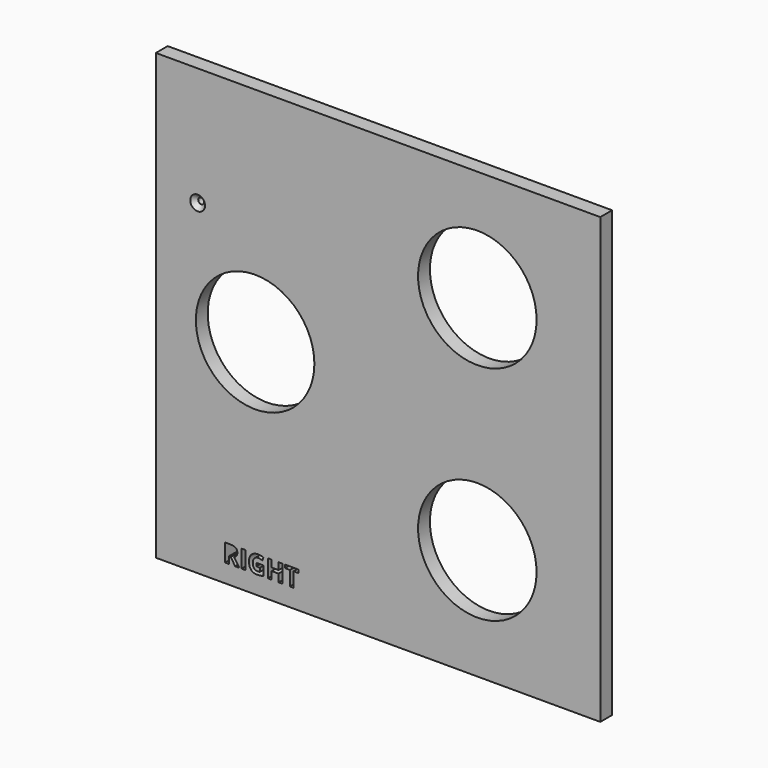
from build123d import *

# Parameters (mm, degrees)
F0_W     = 300
F0_H     = 300
F0_W_2   = 2.5421465495
F0_H_2   = 11.9866538541
F0_R     = 40
F0_R_2   = 2
F1_DEPTH = 10
F2_SIZE  = 3


with BuildPart() as f1:
    # F0 (on Front) → F1 (new body)
    with BuildSketch(Plane.XZ):
        with Locations((-11.0126920044, -10.4479454458)):
            Rectangle(F0_W, F0_H)
        with BuildLine():
            Line((-110.3819430217, -143.5288141009), (-111.7330322611, -143.5288141009))
            Line((-111.7330322611, -143.5288141009), (-111.7330322611, -148.1277644634))
            Line((-111.7330322611, -148.1277644634), (-114.2751788106, -148.1277644634))
            Line((-114.2751788106, -148.1277644634), (-114.2751788106, -136.1411106094))
            Line((-114.2751788106, -136.1411106094), (-110.7833345822, -136.1411106094))
            add(Edge.make_bspline(
                [(-110.7833345822, -136.1411106094), (-108.33825658, -136.1411106094), (-107.1668753268, -137.0304683805)],
                knots=[0, 0, 0, 1, 1, 1], degree=2))
            add(Edge.make_bspline(
                [(-107.1668753268, -137.0304683805), (-105.9954940736, -137.9198261517), (-105.9954940736, -139.7326468594)],
                knots=[0, 0, 0, 1, 1, 1], degree=2))
            add(Edge.make_bspline(
                [(-105.9954940736, -139.7326468594), (-105.9954940736, -140.7899069826), (-106.5765936202, -141.6136778975)],
                knots=[0, 0, 0, 1, 1, 1], degree=2))
            add(Edge.make_bspline(
                [(-106.5765936202, -141.6136778975), (-107.1576931669, -142.4374488124), (-108.2254471872, -142.9044272291)],
                knots=[0, 0, 0, 1, 1, 1], degree=2))
            add(Edge.make_bspline(
                [(-108.2254471872, -142.9044272291), (-105.5180217599, -146.9472010504), (-104.6994977935, -148.1277644634)],
                knots=[0, 0, 0, 1, 1, 1], degree=2))
            Line((-104.6994977935, -148.1277644634), (-107.5197326136, -148.1277644634))
            Line((-107.5197326136, -148.1277644634), (-110.3819430217, -143.5288141009))
        make_face(mode=Mode.SUBTRACT)
        with Locations((-101.9199268242, -142.1344375364)):
            Rectangle(F0_W_2, F0_H_2, mode=Mode.SUBTRACT)
        with BuildLine():
            Line((-93.0827538088, -143.5130732554), (-93.0827538088, -141.3959295347))
            Line((-93.0827538088, -141.3959295347), (-88.3263949913, -141.3959295347))
            Line((-88.3263949913, -141.3959295347), (-88.3263949913, -147.6109400359))
            add(Edge.make_bspline(
                [(-88.3263949913, -147.6109400359), (-89.4833471361, -147.9887203281), (-90.5038786198, -148.1408818347)],
                knots=[0, 0, 0, 1, 1, 1], degree=2))
            add(Edge.make_bspline(
                [(-90.5038786198, -148.1408818347), (-91.5244101036, -148.2930433413), (-92.5895406496, -148.2930433413)],
                knots=[0, 0, 0, 1, 1, 1], degree=2))
            add(Edge.make_bspline(
                [(-92.5895406496, -148.2930433413), (-95.3022130254, -148.2930433413), (-96.7333182295, -146.6979709965)],
                knots=[0, 0, 0, 1, 1, 1], degree=2))
            add(Edge.make_bspline(
                [(-96.7333182295, -146.6979709965), (-98.1644234335, -145.1028986517), (-98.1644234335, -142.1173849538)],
                knots=[0, 0, 0, 1, 1, 1], degree=2))
            add(Edge.make_bspline(
                [(-98.1644234335, -142.1173849538), (-98.1644234335, -139.2158224319), (-96.5037642325, -137.5932036074)],
                knots=[0, 0, 0, 1, 1, 1], degree=2))
            add(Edge.make_bspline(
                [(-96.5037642325, -137.5932036074), (-94.8431050314, -135.970584783), (-91.9021903958, -135.970584783)],
                knots=[0, 0, 0, 1, 1, 1], degree=2))
            add(Edge.make_bspline(
                [(-91.9021903958, -135.970584783), (-90.0552645229, -135.970584783), (-88.3421358368, -136.7077810476)],
                knots=[0, 0, 0, 1, 1, 1], degree=2))
            Line((-88.3421358368, -136.7077810476), (-89.1868945457, -138.7409735924))
            add(Edge.make_bspline(
                [(-89.1868945457, -138.7409735924), (-90.4986316713, -138.0851050296), (-91.9179312413, -138.0851050296)],
                knots=[0, 0, 0, 1, 1, 1], degree=2))
            add(Edge.make_bspline(
                [(-91.9179312413, -138.0851050296), (-93.5654730711, -138.0851050296), (-94.557146338, -139.1922111636)],
                knots=[0, 0, 0, 1, 1, 1], degree=2))
            add(Edge.make_bspline(
                [(-94.557146338, -139.1922111636), (-95.548819605, -140.2993172976), (-95.548819605, -142.1672309645)],
                knots=[0, 0, 0, 1, 1, 1], degree=2))
            add(Edge.make_bspline(
                [(-95.548819605, -142.1672309645), (-95.548819605, -144.1190958075), (-94.7499716955, -145.147497714)],
                knots=[0, 0, 0, 1, 1, 1], degree=2))
            add(Edge.make_bspline(
                [(-94.7499716955, -145.147497714), (-93.951123786, -146.1758996205), (-92.426885246, -146.1758996205)],
                knots=[0, 0, 0, 1, 1, 1], degree=2))
            add(Edge.make_bspline(
                [(-92.426885246, -146.1758996205), (-91.6293490736, -146.1758996205), (-90.8108251072, -146.0132442169)],
                knots=[0, 0, 0, 1, 1, 1], degree=2))
            Line((-90.8108251072, -146.0132442169), (-90.8108251072, -143.5130732554))
            Line((-90.8108251072, -143.5130732554), (-93.0827538088, -143.5130732554))
        make_face(mode=Mode.SUBTRACT)
        Polygon((-75.6523908834, -136.1411106094), (-75.6523908834, -148.1277644634), (-78.1866670101, -148.1277644634), (-78.1866670101, -142.9542732399), (-82.9325319307, -142.9542732399), (-82.9325319307, -148.1277644634), (-85.4746784801, -148.1277644634), (-85.4746784801, -136.1411106094), (-82.9325319307, -136.1411106094), (-82.9325319307, -140.8397529934), (-78.1866670101, -140.8397529934), (-78.1866670101, -136.1411106094), align=None, mode=Mode.SUBTRACT)
        Polygon((-68.0023399667, -138.2556308559), (-68.0023399667, -148.1277644634), (-70.5444865162, -148.1277644634), (-70.5444865162, -138.2556308559), (-73.800218062, -138.2556308559), (-73.800218062, -136.1411106094), (-64.7492318951, -136.1411106094), (-64.7492318951, -138.2556308559), align=None, mode=Mode.SUBTRACT)
        with Locations((55.9873079956, -85.4479454458)):
            Circle(F0_R, mode=Mode.SUBTRACT)
        with Locations((-94.0126920044, -10.4479454458)):
            Circle(F0_R, mode=Mode.SUBTRACT)
        with Locations((-132.8097879887, 59.5533102751)):
            Circle(F0_R_2, mode=Mode.SUBTRACT)
        with Locations((55.9873079956, 64.5520545542)):
            Circle(F0_R, mode=Mode.SUBTRACT)
    extrude(amount=F1_DEPTH)

    # F2
    f2_edges = [f1.edges().sort_by_distance(p)[0] for p in [
        (-134.809788, -10, 59.55331),
    ]]
    chamfer(f2_edges, length=F2_SIZE)


solid = f1.part
